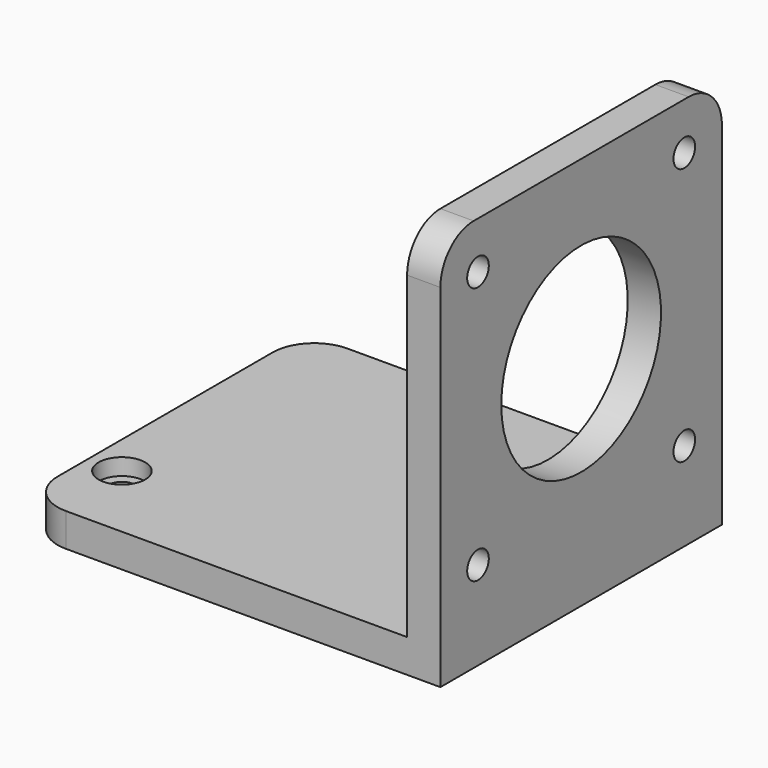
from build123d import *

# Parameters (mm, degrees)
F0_W     = 50
F0_H     = 42.3
F0_R     = 2.8
F0_R_2   = 1.625
F1_DEPTH = 4
F2_R     = 2.8
F2_R_2   = 1.625
F3_DEPTH = 2
F4_W     = 4
F4_H     = 42.3
F5_DEPTH = 43.3
F6_R     = 12
F6_R_2   = 1.625
F7_DEPTH = 25
F8_R     = 5


with BuildPart() as f1:
    # F0 (on Top) → F1 (new body)
    with BuildSketch(Plane.XY):
        with Locations((25, 21.15)):
            Rectangle(F0_W, F0_H)
        with Locations((4, 9.65)):
            Circle(F0_R, mode=Mode.SUBTRACT)
        with Locations((42, 32.65)):
            Circle(F0_R, mode=Mode.SUBTRACT)
        with Locations((42, 32.65)):
            Circle(F0_R)
        with Locations((42, 32.65)):
            Circle(F0_R_2, mode=Mode.SUBTRACT)
        with Locations((4, 9.65)):
            Circle(F0_R)
        with Locations((4, 9.65)):
            Circle(F0_R_2, mode=Mode.SUBTRACT)
    extrude(amount=F1_DEPTH)

    # F2 (on face) → F3 (cut)
    with BuildSketch(Plane.XY.offset(4)):
        with Locations((4, 9.65)):
            Circle(F2_R)
        with Locations((4, 9.65)):
            Circle(F2_R_2, mode=Mode.SUBTRACT)
        with Locations((42, 32.65)):
            Circle(F2_R)
        with Locations((42, 32.65)):
            Circle(F2_R_2, mode=Mode.SUBTRACT)
    extrude(amount=-F3_DEPTH, mode=Mode.SUBTRACT)

    # F4 (on face) → F5 (join)
    with BuildSketch(Plane.XY.offset(4)):
        with Locations((48, 21.15)):
            Rectangle(F4_W, F4_H)
    extrude(amount=F5_DEPTH)

    # F6 (on face) → F7 (cut)
    with BuildSketch(Plane(origin=(46, 0, 0), x_dir=(0, -1, 0), z_dir=(-1, 0, 0))):
        with Locations((-21.15, 26.15)):
            Circle(F6_R)
        with Locations((-36.65, 41.65)):
            Circle(F6_R_2)
        with Locations((-5.65, 41.65)):
            Circle(F6_R_2)
        with Locations((-5.65, 10.65)):
            Circle(F6_R_2)
        with Locations((-36.65, 10.65)):
            Circle(F6_R_2)
    extrude(amount=-F7_DEPTH, mode=Mode.SUBTRACT)

    # F8
    f8_edges = [f1.edges().sort_by_distance(p)[0] for p in [
        (0, 0, 2),
        (0, 42.3, 2),
        (48, 42.3, 47.3),
        (48, 0, 47.3),
    ]]
    fillet(f8_edges, radius=F8_R)


solid = f1.part
